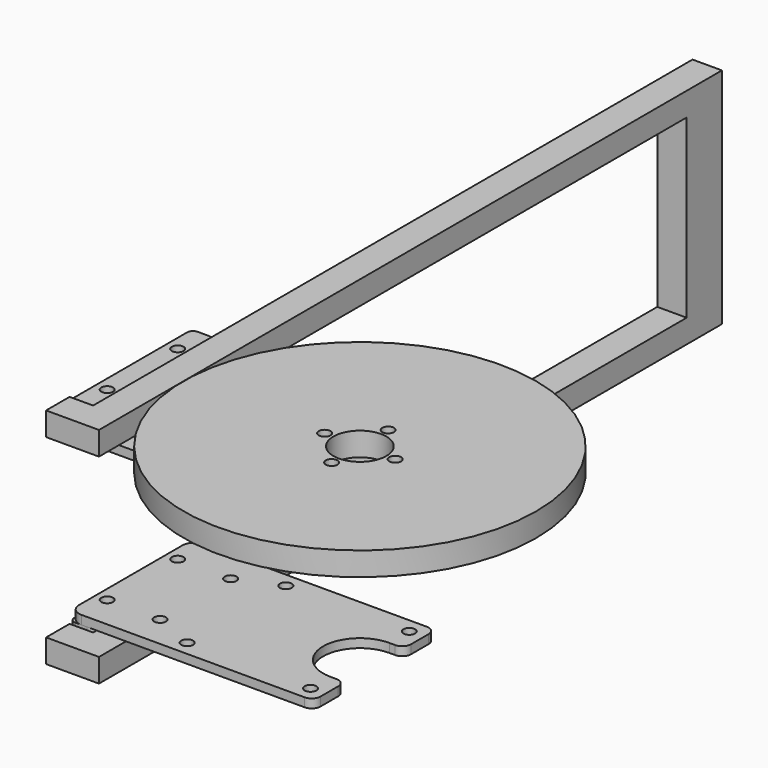
from build123d import *

# Parameters (mm, degrees)
F0_R      = 1
F1_DEPTH  = 1.5
F2_R      = 30
F2_R_2    = 1
F2_R_3    = 4.5
F3_DEPTH  = 4
F4_R      = 1.5
F8_W      = 5
F8_H      = 7.5
F9_DEPTH  = 4
F10_DEPTH = 15


with BuildPart() as f1:
    # F0 (on Top) → F1 (new body)
    with BuildSketch(Plane.XY):
        with BuildLine():
            Line((-40, -13), (-40, 13))
            Line((-40, 13), (-42, 13))
            ThreePointArc((-42, 13), (-43.4142135624, 12.4142135624), (-44, 11))
            Line((-44, 11), (-44, -11))
            ThreePointArc((-44, -11), (-43.4142135624, -12.4142135624), (-42, -13))
            Line((-42, -13), (-40, -13))
        make_face()
        with Locations((-42, -7.5)):
            Circle(F0_R, mode=Mode.SUBTRACT)
        with Locations((-42, 7.5)):
            Circle(F0_R, mode=Mode.SUBTRACT)
        with BuildLine():
            Line((-2.5, 6.25), (-2.5, 13))
            Line((-2.5, 13), (-7.5, 13))
            Line((-7.5, 13), (-40, 13))
            Line((-40, 13), (-40, -13))
            Line((-40, -13), (-7.5, -13))
            Line((-7.5, -13), (-2.5, -13))
            Line((-2.5, -13), (-2.5, -6.25))
            Line((-2.5, -6.25), (-5, -6.25))
            ThreePointArc((-5, -6.25), (-11.25, 0), (-5, 6.25))
            Line((-5, 6.25), (-2.5, 6.25))
        make_face()
        with Locations((-26, -10.5)):
            Circle(F0_R, mode=Mode.SUBTRACT)
        with Locations((-33, -7.5)):
            Circle(F0_R, mode=Mode.SUBTRACT)
        with Locations((-5, -10.5)):
            Circle(F0_R, mode=Mode.SUBTRACT)
        with Locations((-33, 7.5)):
            Circle(F0_R, mode=Mode.SUBTRACT)
        with Locations((-26, 10.5)):
            Circle(F0_R, mode=Mode.SUBTRACT)
        with Locations((-5, 10.5)):
            Circle(F0_R, mode=Mode.SUBTRACT)
    extrude(amount=F1_DEPTH)

    # F4
    f4_edges = [f1.edges().sort_by_distance(p)[0] for p in [
        (-2.5, -13, 0.75),
        (-2.5, -6.25, 0.75),
        (-2.5, 6.25, 0.75),
        (-2.5, 13, 0.75),
    ]]
    fillet(f4_edges, radius=F4_R)


with BuildPart() as f3:
    # F2 (on face) → F3 (new body)
    with BuildSketch(Plane.XY.offset(1.5)):
        with Locations((-5, 0)):
            Circle(F2_R)
        with Locations((-5, -6)):
            Circle(F2_R_2, mode=Mode.SUBTRACT)
        with Locations((-11, 0)):
            Circle(F2_R_2, mode=Mode.SUBTRACT)
        with Locations((-5, 0)):
            Circle(F2_R_3, mode=Mode.SUBTRACT)
        with Locations((-5, 6)):
            Circle(F2_R_2, mode=Mode.SUBTRACT)
        with Locations((1, 0)):
            Circle(F2_R_2, mode=Mode.SUBTRACT)
    extrude(amount=F3_DEPTH)


with BuildPart() as f3b:
    # F2 (on face) → F3, piece 2 (new body)
    with BuildSketch(Plane.XY.offset(1.5)):
        with BuildLine():
            Line((-41, 13), (-43, 13))
            ThreePointArc((-43, 13), (-43.7071067812, 12.7071067812), (-44, 12))
            Line((-44, 12), (-44, -12))
            ThreePointArc((-44, -12), (-43.7071067812, -12.7071067812), (-43, -13))
            Line((-43, -13), (-41, -13))
            ThreePointArc((-41, -13), (-40.2928932188, -12.7071067812), (-40, -12))
            Line((-40, -12), (-40, 12))
            ThreePointArc((-40, 12), (-40.2928932188, 12.7071067812), (-41, 13))
        make_face()
        with Locations((-42, -7.5)):
            Circle(F2_R_2, mode=Mode.SUBTRACT)
        with Locations((-42, 7.5)):
            Circle(F2_R_2, mode=Mode.SUBTRACT)
    extrude(amount=F3_DEPTH)


with BuildPart() as f3_1:
    # F5: moved
    add(f3.part.moved(Location((0, 0, 0.5))))


with BuildPart() as f7_1:
    # F7: instance of F1
    add(f1.part.mirror(Plane(origin=(-24.8052388684, 0, -13), x_dir=(1, 0, 0), z_dir=(0, 0, -1))))


with BuildPart() as f7_2:
    # F7: instance of F3b
    add(f3b.part.mirror(Plane(origin=(-24.8052388684, 0, -13), x_dir=(1, 0, 0), z_dir=(0, 0, -1))))


with BuildPart() as f9:
    # F8 (on face) → F9 (new body)
    with BuildSketch(Plane(origin=(0, 0, 2), x_dir=(1, 0, 0), z_dir=(0, 0, -1))):
        Polygon((-35, 18), (-40, 18), (-44, 18), (-44, 13), (-40, 13), (-40, -107), (-35, -107), align=None)
        with Locations((-37.5, -110.75)):
            Rectangle(F8_W, F8_H)
    extrude(amount=-F9_DEPTH)

    # F8 (on face) → F10 (join, through all)
    with BuildSketch(Plane(origin=(0, 0, 2), x_dir=(1, 0, 0), z_dir=(0, 0, -1))):
        with Locations((-37.5, -110.75)):
            Rectangle(F8_W, F8_H)
    extrude(amount=F10_DEPTH)

    # F11: F9 across plane


with BuildPart() as f9_1:
    add(f9.part)
    add(f9.part.mirror(Plane(origin=(-24.8052388684, 0, -13), x_dir=(1, 0, 0), z_dir=(0, 0, -1))))


solid = Compound([f1.part, f3b.part, f3_1.part, f7_1.part, f7_2.part, f9_1.part])
